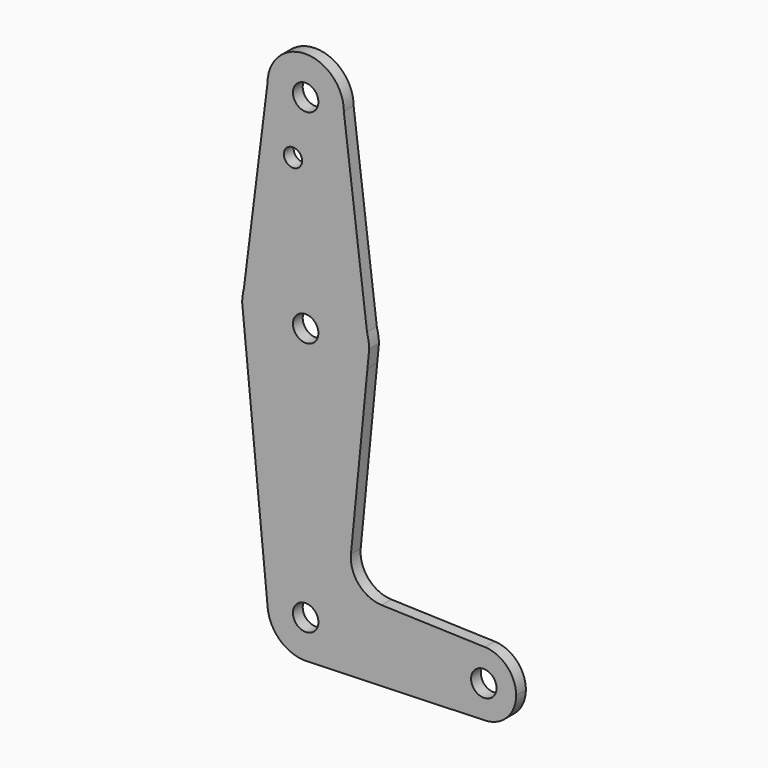
from build123d import *

# Parameters (mm, degrees)
F0_R     = 2.267908
F0_R_2   = 3.175
F1_DEPTH = 3.048


with BuildPart() as f1:
    # F0 (on Front) → F1 (new body)
    with BuildSketch(Plane.XZ):
        with BuildLine():
            Line((-24.146937, 38.565591), (-29.934667, 85.177998))
            ThreePointArc((-29.934667, 85.177998), (-39.459667, 75.652998), (-48.984667, 85.177998))
            Line((-48.984667, 85.177998), (-54.876385, 38.164876))
            ThreePointArc((-54.876385, 38.164876), (-39.666661, 50.251649), (-24.146937, 38.565591))
        make_face()
        with Locations((-42.634667, 70.903198)):
            Circle(F0_R, mode=Mode.SUBTRACT)
        with BuildLine():
            ThreePointArc((-48.984667, 85.177998), (-39.459667, 75.652998), (-29.934667, 85.177998))
            ThreePointArc((-29.934667, 85.177998), (-39.459667, 94.702998), (-48.984667, 85.177998))
        make_face()
        with Locations((-39.459667, 85.177998)):
            Circle(F0_R_2, mode=Mode.SUBTRACT)
        with BuildLine():
            Line((-28.163233, -11.497019), (-24.041157, 30.598422))
            ThreePointArc((-24.041157, 30.598422), (-39.459656, 18.502998), (-54.878171, 30.5984))
            Line((-54.878171, 30.5984), (-48.939326, -30.05027))
            ThreePointArc((-48.939326, -30.05027), (-46.515422, -22.723413), (-39.459667, -19.597002))
            ThreePointArc((-39.459667, -19.597002), (-39.147797, -19.602109), (-38.836261, -19.617425))
            ThreePointArc((-38.836261, -19.617425), (-32.507561, -22.610946), (-29.934667, -29.122002))
            ThreePointArc((-29.934667, -29.122002), (-32.33703, -35.446057), (-38.332288, -38.580048))
            Line((-38.332288, -38.580048), (5.248837, -37.182357))
            ThreePointArc((5.248837, -37.182357), (-3.074166, -29.119227), (5.254383, -21.061826))
            Line((5.254383, -21.061826), (-20.511185, -20.217751))
            ThreePointArc((-20.511185, -20.217751), (-26.226737, -17.51536), (-28.163233, -11.497019))
        make_face()
        with BuildLine():
            ThreePointArc((-39.459667, -19.597002), (-46.515422, -22.723413), (-48.939326, -30.05027))
            ThreePointArc((-48.939326, -30.05027), (-46.048187, -36.000738), (-39.978694, -38.63285))
            Line((-39.978694, -38.63285), (-38.332288, -38.580048))
            ThreePointArc((-38.332288, -38.580048), (-32.33703, -35.446057), (-29.934667, -29.122002))
            ThreePointArc((-29.934667, -29.122002), (-32.507561, -22.610946), (-38.836261, -19.617425))
            Line((-38.836261, -19.617425), (-39.459667, -19.597002))
        make_face()
        with Locations((-39.459667, -29.122002)):
            Circle(F0_R_2, mode=Mode.SUBTRACT)
        with BuildLine():
            ThreePointArc((13.054833, -29.122002), (10.7854, -23.513672), (5.254383, -21.061826))
            ThreePointArc((5.254383, -21.061826), (-3.074166, -29.119227), (5.248837, -37.182357))
            ThreePointArc((5.248837, -37.182357), (10.78347, -34.732325), (13.054833, -29.122002))
        make_face()
        with Locations((4.990333, -29.122002)):
            Circle(F0_R_2, mode=Mode.SUBTRACT)
        with BuildLine():
            ThreePointArc((-23.600859, 35.094832), (-23.777584, 36.845365), (-24.146937, 38.565591))
            ThreePointArc((-24.146937, 38.565591), (-39.666661, 50.251649), (-54.876385, 38.164876))
            ThreePointArc((-54.876385, 38.164876), (-55.172587, 36.640689), (-55.318473, 35.094856))
            Line((-55.318473, 35.094856), (-54.878171, 30.5984))
            ThreePointArc((-54.878171, 30.5984), (-39.459656, 18.502998), (-24.041157, 30.598422))
            Line((-24.041157, 30.598422), (-23.600859, 35.094832))
        make_face()
        with Locations((-39.459667, 34.377998)):
            Circle(F0_R_2, mode=Mode.SUBTRACT)
    extrude(amount=F1_DEPTH)


solid = f1.part
